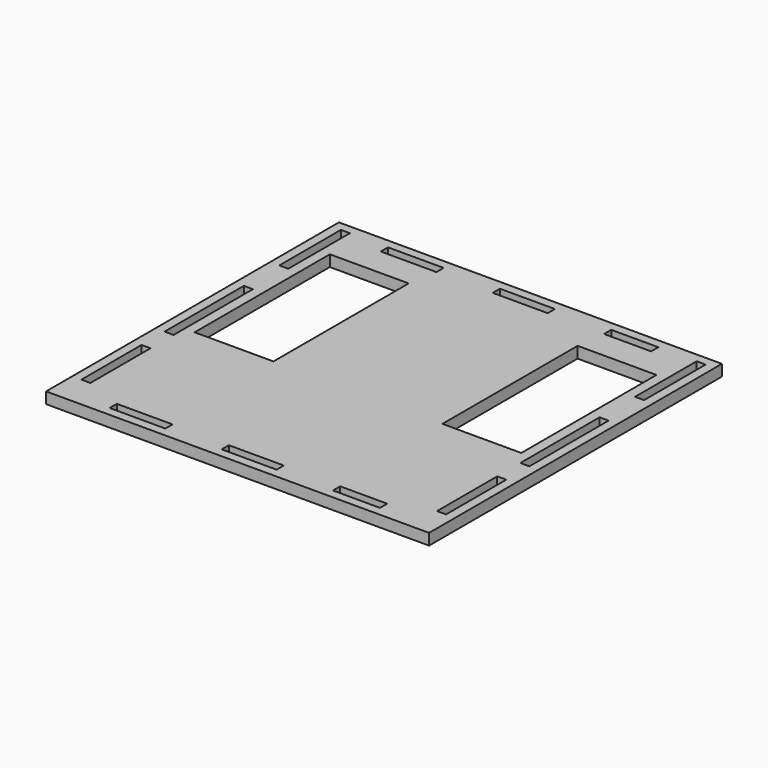
from build123d import *

# Parameters (mm, degrees)
F0_W     = 172.72
F0_H     = 165.1
F0_W_2   = 25.104146
F0_H_2   = 4.064
F0_W_3   = 4.064
F0_H_3   = 33.9242
F0_W_4   = 24.795201
F0_W_5   = 21.220653
F0_H_4   = 44.69198
F0_W_6   = 35.56
F0_H_5   = 76.2
F0_H_6   = 34.7
F1_DEPTH = 5.08


with BuildPart() as f1:
    # F0 (on Top) → F1 (new body)
    with BuildSketch(Plane.XY):
        with Locations((0, -33.211574)):
            Rectangle(F0_W, F0_H)
        with Locations((-48.407927, -109.63035)):
            Rectangle(F0_W_2, F0_H_2, mode=Mode.SUBTRACT)
        with Locations((-80.213484, -84.063285)):
            Rectangle(F0_W_3, F0_H_3, mode=Mode.SUBTRACT)
        with Locations((1.941747, -109.63035)):
            Rectangle(F0_W_4, F0_H_2, mode=Mode.SUBTRACT)
        with Locations((50.349673, -109.63035)):
            Rectangle(F0_W_5, F0_H_2, mode=Mode.SUBTRACT)
        with Locations((80.213484, -84.063285)):
            Rectangle(F0_W_3, F0_H_3, mode=Mode.SUBTRACT)
        with Locations((-80.213484, -31.755195)):
            Rectangle(F0_W_3, F0_H_4, mode=Mode.SUBTRACT)
        with Locations((-55.88, -9.791071)):
            Rectangle(F0_W_6, F0_H_5, mode=Mode.SUBTRACT)
        with Locations((-80.213484, 27.940795)):
            Rectangle(F0_W_3, F0_H_6, mode=Mode.SUBTRACT)
        with Locations((-48.407927, 43.207203)):
            Rectangle(F0_W_2, F0_H_2, mode=Mode.SUBTRACT)
        with Locations((80.213484, -31.755195)):
            Rectangle(F0_W_3, F0_H_4, mode=Mode.SUBTRACT)
        with Locations((55.88, -9.791071)):
            Rectangle(F0_W_6, F0_H_5, mode=Mode.SUBTRACT)
        with Locations((1.941747, 43.207203)):
            Rectangle(F0_W_4, F0_H_2, mode=Mode.SUBTRACT)
        with Locations((80.213484, 27.940795)):
            Rectangle(F0_W_3, F0_H_6, mode=Mode.SUBTRACT)
        with Locations((50.349673, 43.207203)):
            Rectangle(F0_W_5, F0_H_2, mode=Mode.SUBTRACT)
    extrude(amount=F1_DEPTH)


solid = f1.part
